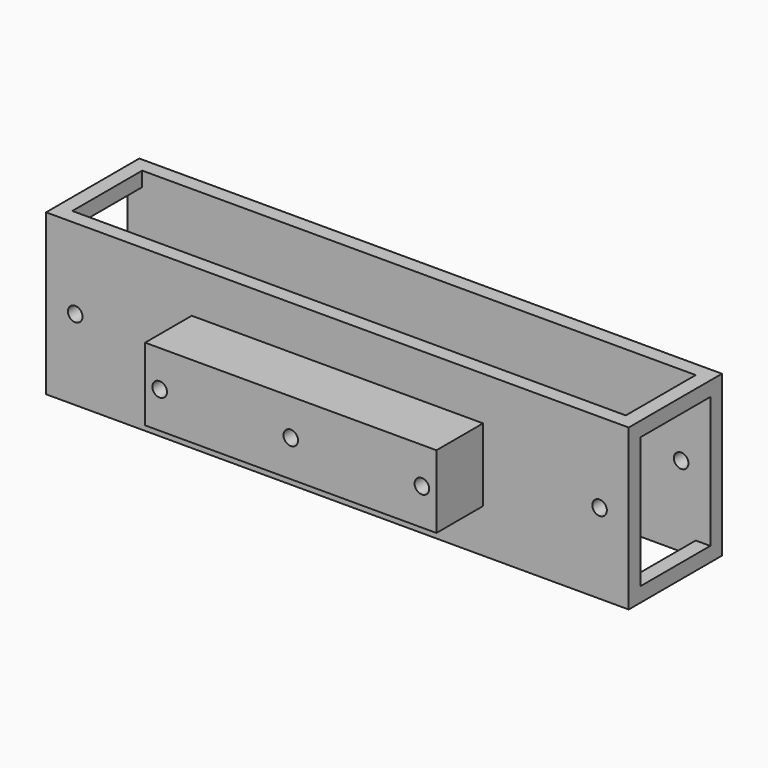
from build123d import *

# Parameters (mm, degrees)
F0_W      = 100
F0_H      = 20
F1_DEPTH  = 27.5
F2_W      = 190
F2_H      = 30
F3_DEPTH  = 55.001
F4_W      = 30
F4_H      = 45
F5_DEPTH  = 500
F6_R      = 2.5
F7_DEPTH  = 40.001
F8_R      = 2.5
F9_DEPTH  = 60.001
F10_R     = 2.5
F11_DEPTH = 60.001
F12_W     = 145.98173
F12_H     = 84.634348
F12_W_2   = 100
F12_H_2   = 25
F13_DEPTH = 20


with BuildPart() as f1:
    # F0 (on Top) → F1 (new body, symmetric)
    with BuildSketch(Plane.XY):
        Polygon((100, 0), (-100, 0), (-100, -40), (-50, -40), (50, -40), (100, -40), align=None)
        with Locations((0, -50)):
            Rectangle(F0_W, F0_H)
    extrude(amount=F1_DEPTH, both=True)

    # F2 (on face) → F3 (cut, through all)
    with BuildSketch(Plane.XY.offset(27.5)):
        with Locations((0, -20)):
            Rectangle(F2_W, F2_H)
    extrude(amount=-F3_DEPTH, mode=Mode.SUBTRACT)

    # F4 (on face) → F5 (cut, symmetric)
    with BuildSketch(Plane.YZ.offset(-95)):
        with Locations((-20, 0)):
            Rectangle(F4_W, F4_H)
    extrude(amount=F5_DEPTH, both=True, mode=Mode.SUBTRACT)

    # F6 (on face) → F7 (cut, through all)
    with BuildSketch(Plane.XZ.offset(40)):
        with Locations((-90, 0)):
            Circle(F6_R)
        with Locations((90, 0)):
            Circle(F6_R)
    extrude(amount=-F7_DEPTH, mode=Mode.SUBTRACT)

    # F8 (on face) → F9 (cut, through all)
    with BuildSketch(Plane.XZ.offset(60)):
        with Locations((-45, 0)):
            Circle(F8_R)
        with Locations((45, 0)):
            Circle(F8_R)
    extrude(amount=-F9_DEPTH, mode=Mode.SUBTRACT)

    # F10 (on face) → F11 (cut, through all)
    with BuildSketch(Plane.XZ.offset(60)):
        Circle(F10_R)
    extrude(amount=-F11_DEPTH, mode=Mode.SUBTRACT)

    # F12 (on face) → F13 (cut, through all)
    with BuildSketch(Plane.XZ.offset(60)):
        Rectangle(F12_W, F12_H)
        Rectangle(F12_W_2, F12_H_2, mode=Mode.SUBTRACT)
    extrude(amount=-F13_DEPTH, mode=Mode.SUBTRACT)


solid = f1.part
